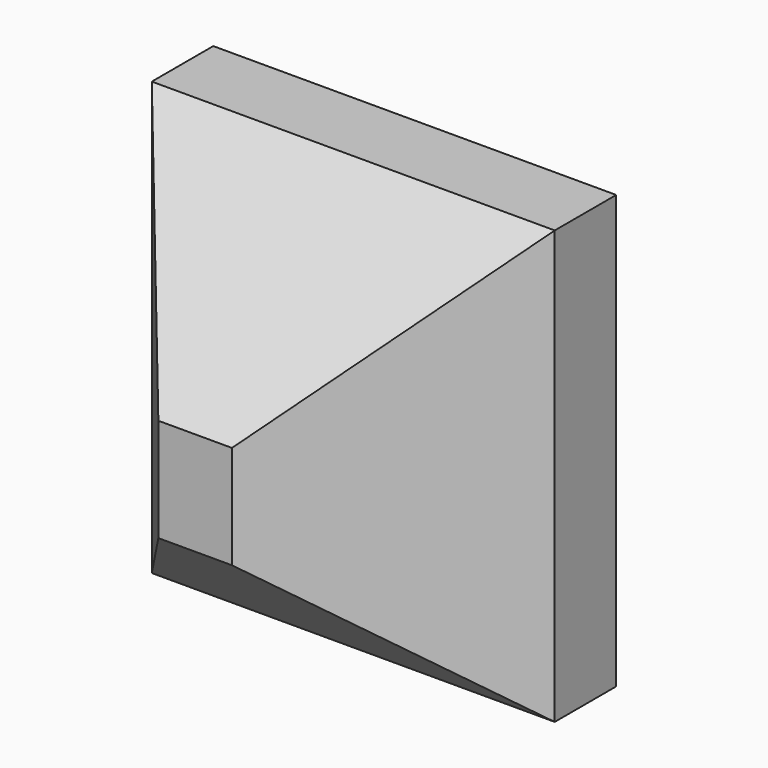
from build123d import *

# Parameters (mm, degrees)
F0_W     = 36.701314
F0_H     = 39.408794
F1_DEPTH = 25
F2_SIZE2 = 15
F2_SIZE  = 18


with BuildPart() as f1:
    # F0 (on Front) → F1 (new body)
    with BuildSketch(Plane.XZ):
        with Locations((-18.350657, 15.342352)):
            Rectangle(F0_W, F0_H)
    extrude(amount=F1_DEPTH)

    # F2
    f2_edges = [f1.edges().sort_by_distance(p)[0] for p in [
        (-18.350657, -25, -4.362045),
        (0, -25, 15.342352),
        (-18.350657, -25, 35.046749),
        (-36.701314, -25, 15.342352),
    ]]
    chamfer(f2_edges, length=F2_SIZE, length2=F2_SIZE2)


solid = f1.part
